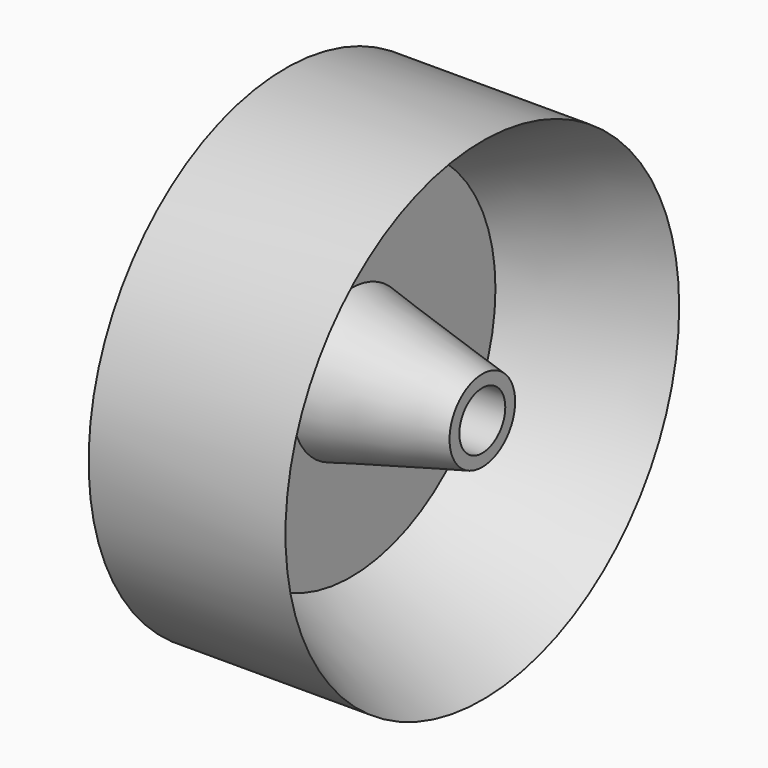
from build123d import *

# Parameters (mm, degrees)
F2_R     = 1.75
F3_DEPTH = 8


with BuildPart() as f1:
    # F0 (on Top) → F1 (revolve)
    with BuildSketch(Plane.XY):
        with BuildLine():
            Line((12, 15), (0, 15))
            ThreePointArc((0, 15), (-1.592592, 7.579012), (-2, 0))
            Line((-2, 0), (12, 0))
            Line((12, 0), (12, 2.5))
            Line((12, 2.5), (4, 4.5))
            Line((4, 4.5), (4, 11))
            Line((4, 11), (12, 15))
        make_face()
    revolve(axis=Axis((3.151618, 0, 0), (1, 0, 0)))

    # F2 (on face) → F3 (cut)
    with BuildSketch(Plane.YZ.offset(12)):
        Circle(F2_R)
    extrude(amount=-F3_DEPTH, mode=Mode.SUBTRACT)


solid = f1.part
